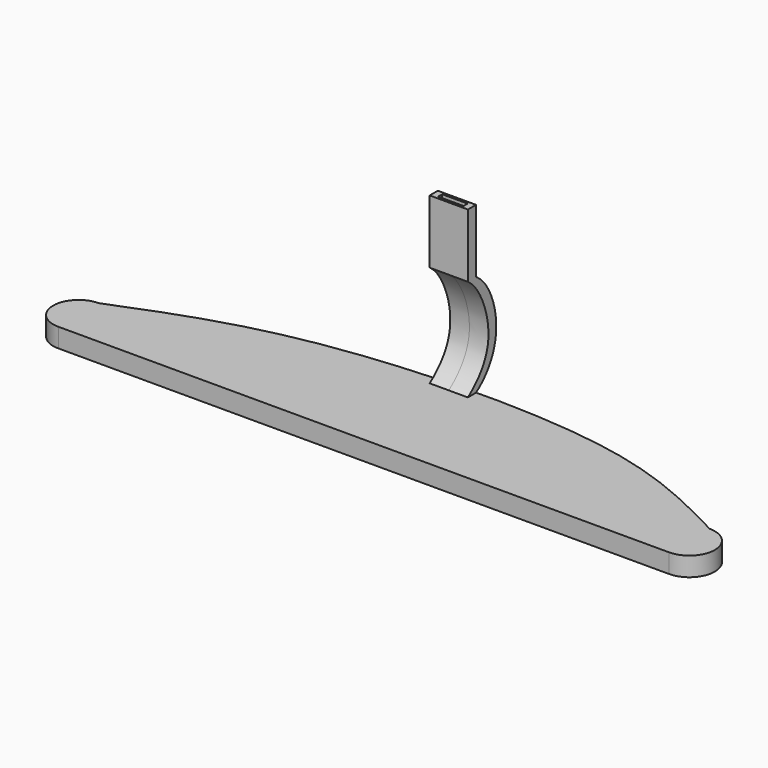
from build123d import *

# Parameters (mm, degrees)
F1_DEPTH = 15
F2_W     = 8
F2_H     = 50
F3_DEPTH = 15
F4_W     = 20
F4_H     = 4
F5_DEPTH = 30


with BuildPart() as f1:
    # F0 (on Top) → F1 (new body)
    with BuildSketch(Plane.XY):
        with BuildLine():
            ThreePointArc((-240, 20), (-260, 0), (-240, -20))
            Line((-240, -20), (240, -20))
            ThreePointArc((240, -20), (260, 0), (240, 20))
            add(Edge.make_bspline(
                [(-240, 20), (-201.0380044732, 35.6526101303), (-111.5188369016, 71.6160819761), (127.7105565079, 78.2594773928), (206.7294289612, 37.2618727193), (240, 20)],
                knots=[0, 0, 0, 0, 0.3085194424, 0.7088549571, 1, 1, 1, 1], degree=3))
        make_face()
    extrude(amount=F1_DEPTH)

    # F2 (on Right) → F3 (join, symmetric)
    with BuildSketch(Plane.YZ):
        with BuildLine():
            Line((63.6485348786, 15), (71.6485348786, 15))
            add(Edge.make_bspline(
                [(71.6485348786, 15), (81.1055550979, 21.2851513885), (99.9699154527, 46.3766770593), (84.9787602317, 86.8551220677), (71.6485385144, 95)],
                knots=[0, 0, 0, 0, 0.4642688731, 1, 1, 1, 1], degree=3))
            Line((71.6485385144, 95), (63.6485385144, 95))
            add(Edge.make_bspline(
                [(63.6485385144, 95), (75.6313007905, 86.8630942273), (92.9907729816, 45.3965691415), (73.9991203582, 22.623041553), (63.6485348786, 15)],
                knots=[0, 0, 0, 0, 0.53596906, 1, 1, 1, 1], degree=3))
        make_face()
        with Locations((67.6485385144, 120)):
            Rectangle(F2_W, F2_H)
    extrude(amount=F3_DEPTH, both=True)

    # F4 (on face) → F5 (cut)
    with BuildSketch(Plane.XY.offset(145)):
        with Locations((0, 67.6485385144)):
            Rectangle(F4_W, F4_H)
    extrude(amount=-F5_DEPTH, mode=Mode.SUBTRACT)


solid = f1.part
